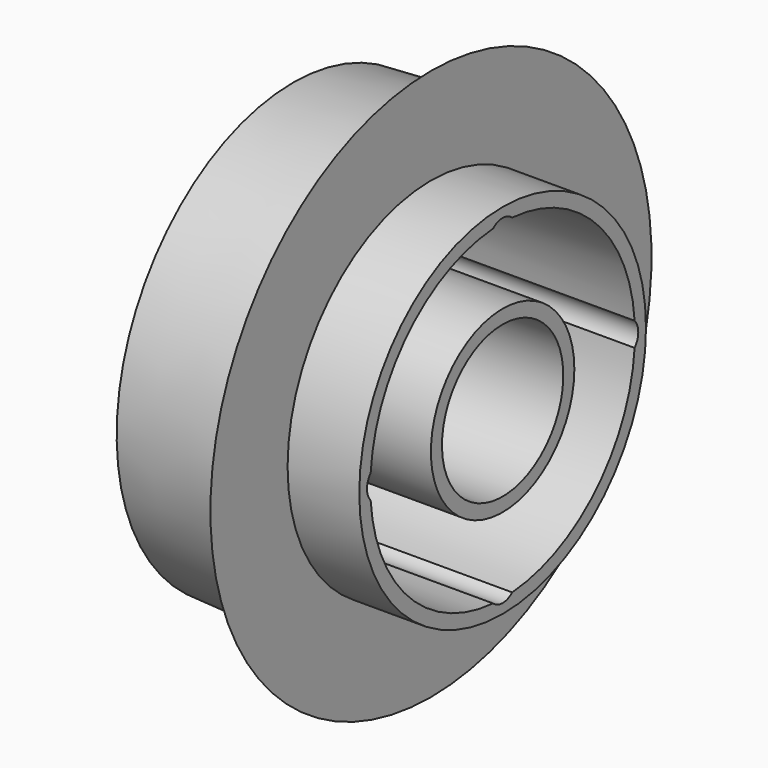
from build123d import *

# Parameters (mm, degrees)
F2_R     = 38.1
F2_R_2   = 20.6502
F3_DEPTH = 44.45
F5_D     = 8.255


with BuildPart() as f1:
    # F0 (on Front) → F1 (revolve)
    with BuildSketch(Plane.XZ):
        Polygon((0, 50.8), (0, 17.4625), (48.26, 17.4625), (48.26, 41.275), (31.75, 41.275), (31.75, 63.5), (25.4, 52.07), align=None)
    revolve(axis=Axis((41.694678, 0, 0), (1, 0, 0)))

    # F2 (on face) → F3 (cut)
    with BuildSketch(Plane.YZ.offset(48.26)):
        Circle(F2_R)
        Circle(F2_R_2, mode=Mode.SUBTRACT)
    extrude(amount=-F3_DEPTH, mode=Mode.SUBTRACT)

    # F5 (through all)
    with Locations(Plane(origin=(0, 0, 0), x_dir=(0, 1, 0), z_dir=(-1, 0, 0))):
        with Locations((-34.925, 0), (0, -34.925), (34.925, 0), (0, 34.925)):
            Hole(F5_D / 2)


solid = f1.part
